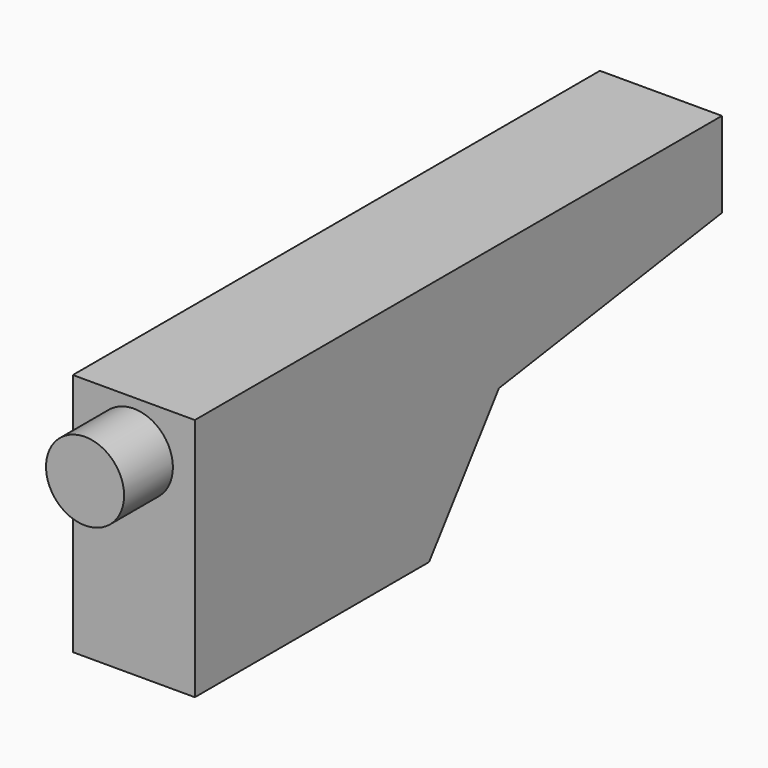
from build123d import *

# Parameters (mm, degrees)
F3_DEPTH = 25
F2_W     = 21
F2_H     = 87
F4_DEPTH = 17
F5_R     = 16
F6_DEPTH = 25


with BuildPart() as f3:
    # F1 (on Right) → F3 (new body, symmetric)
    with BuildSketch(Plane.YZ):
        Polygon((47.2, -35), (47.2, 0), (-222.8, 0), (-222.8, -100), (-102.8, -100), (-67.015476, -51.839146), align=None)
    extrude(amount=F3_DEPTH, both=True)


with BuildPart() as f4:
    # F2 (on Right) → F4 (new body, symmetric)
    with BuildSketch(Plane.YZ):
        with Locations((-205.787494, -50.348558)):
            Rectangle(F2_W, F2_H)
    extrude(amount=F4_DEPTH, both=True)


with BuildPart() as f6:
    # F5 (on face) → F6 (new body)
    with BuildSketch(Plane.XZ.offset(222.8)):
        with Locations((0, -20)):
            Circle(F5_R)
    extrude(amount=F6_DEPTH)


solid = Compound([f3.part, f4.part, f6.part])
